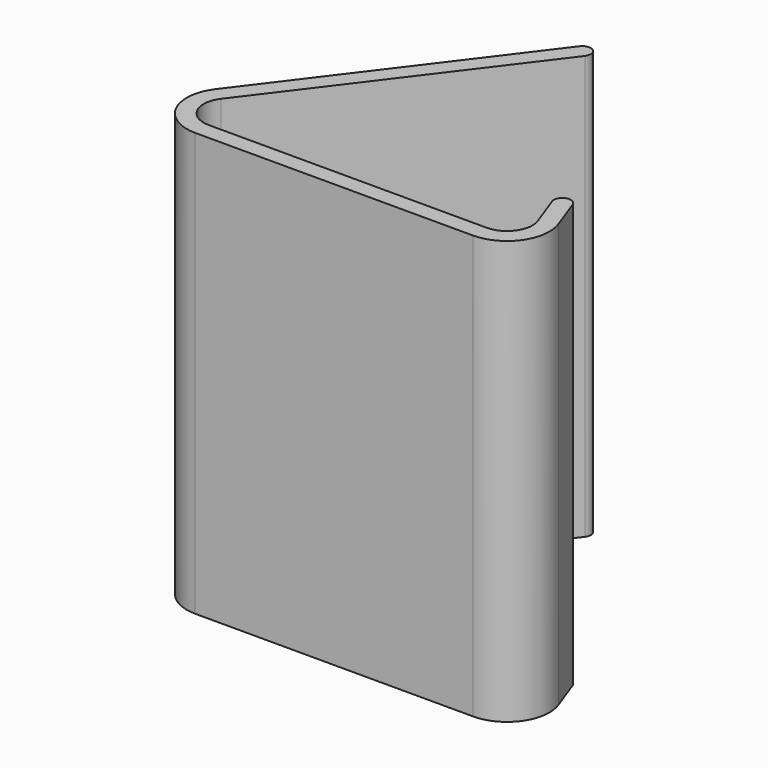
from build123d import *

# Parameters (mm, degrees)
F1_DEPTH = 50


with BuildPart() as f1:
    # F0 (on Top) → F1 (new body)
    with BuildSketch(Plane.XY):
        with BuildLine():
            Line((-20.484694, -18.369378), (-21.890144, -14.507935))
            ThreePointArc((-21.890144, -14.507935), (-22.407219, -13.943648), (-23.171857, -13.910263))
            ThreePointArc((-23.171857, -13.910263), (-23.736145, -14.427337), (-23.76953, -15.191975))
            Line((-23.76953, -15.191975), (-22.364079, -19.053418))
            ThreePointArc((-22.364079, -19.053418), (-22.725701, -21.800208), (-25.183157, -23.079479))
            Line((-25.183157, -23.079479), (-58.007304, -23.079479))
            ThreePointArc((-58.007304, -23.079479), (-60.692462, -21.41736), (-60.402253, -18.272763))
            Line((-60.402253, -18.272763), (-39.547274, 9.372207))
            ThreePointArc((-39.547274, 9.372207), (-39.355248, 10.113094), (-39.743351, 10.772762))
            ThreePointArc((-39.743351, 10.772762), (-40.484238, 10.964788), (-41.143906, 10.576685))
            Line((-41.143906, 10.576685), (-61.998885, -17.068286))
            ThreePointArc((-61.998885, -17.068286), (-62.482568, -22.309281), (-58.007304, -25.079479))
            Line((-58.007304, -25.079479), (-25.183157, -25.079479))
            ThreePointArc((-25.183157, -25.079479), (-21.087397, -22.947361), (-20.484694, -18.369378))
        make_face()
    extrude(amount=F1_DEPTH)


solid = f1.part
